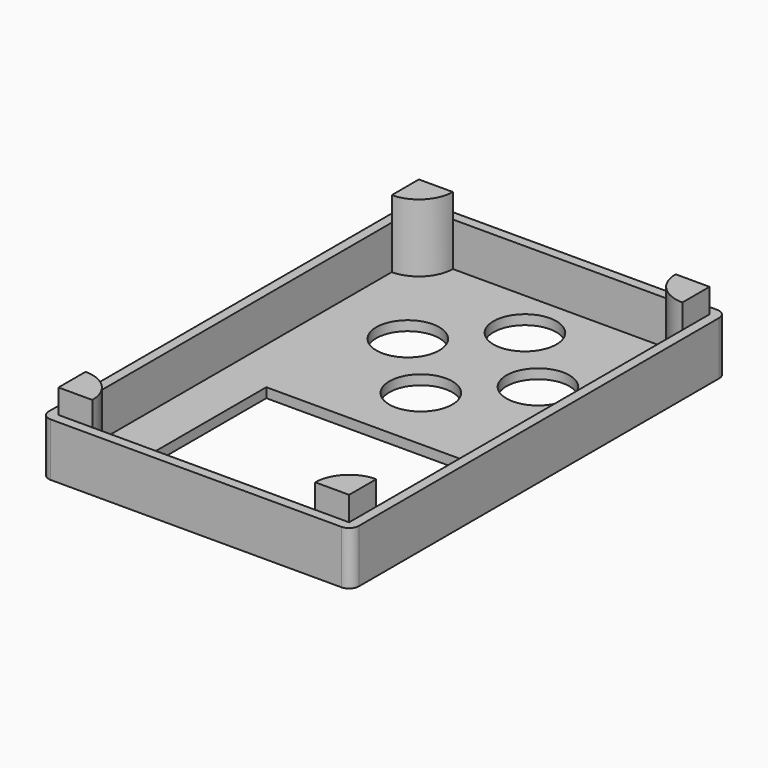
from build123d import *

# Parameters (mm, degrees)
PAD001_DEPTH            = 11
SKETCH002_W             = 60
SKETCH002_H             = 93
POCKET001_DEPTH         = 9
SKETCH004_R             = 6.5
POCKET002_DEPTH         = 5
PAD002_DEPTH            = 14
BODY003_PLACEMENT_ANGLE = 180


with BuildPart() as part:
    # Sketch003 → Pad001 (new body)
    with BuildSketch(Plane.XY):
        with BuildLine():
            ThreePointArc((0, 2), (-1.414214, 1.414214), (-2, 0))
            Line((-2, 0), (-2, -93))
            ThreePointArc((-2, -93), (-1.414207, -94.414201), (0, -94.999981))
            Line((0, -94.999981), (60, -94.999981))
            ThreePointArc((60, -94.999981), (61.414214, -94.414194), (62, -92.999981))
            Line((62, 0), (62, -92.999981))
            ThreePointArc((62, 0), (61.414214, 1.414214), (60, 2))
            Line((0, 2), (60, 2))
        make_face()
    extrude(amount=PAD001_DEPTH)

    # Sketch002 (on Face10 of Pad001) → Pocket001 (cut)
    with BuildSketch(Plane.XY.offset(11)):
        with Locations((30, -46.5)):
            Rectangle(SKETCH002_W, SKETCH002_H)
    extrude(amount=-POCKET001_DEPTH, mode=Mode.SUBTRACT)

    # Sketch004 → Pocket002 (cut)
    with BuildSketch(Plane.XY):
        with Locations((30, -56)):
            Circle(SKETCH004_R)
        with Locations((43.435029, -69.435029)):
            Circle(SKETCH004_R)
        with Locations((16.564971, -69.435029)):
            Circle(SKETCH004_R)
        with Locations((30, -82.870058)):
            Circle(SKETCH004_R)
        Polygon((50.693539, -7), (50.693539, -42), (9.693539, -42), (9.693539, -7), (30.193539, -7), align=None)
    extrude(amount=POCKET002_DEPTH, mode=Mode.SUBTRACT)

    # Sketch006 (on Face24 of Pocket002) → Pad002 (join)
    with BuildSketch(Plane.XY.offset(2)):
        with BuildLine():
            Line((0, 0), (7, 0))
            ThreePointArc((0, -7), (4.949747, -4.949747), (7, 0))
            Line((0, -7), (0, 0))
        make_face()
        with BuildLine():
            Line((60, 0), (53, 0))
            ThreePointArc((53, 0), (55.050253, -4.949747), (60, -7))
            Line((60, 0), (60, -7))
        make_face()
        with BuildLine():
            Line((0, -93), (0, -86))
            ThreePointArc((7, -93), (4.949747, -88.050253), (0, -86))
            Line((0, -93), (7, -93))
        make_face()
        with BuildLine():
            Line((60, -93), (60, -86))
            ThreePointArc((60, -86), (55.050253, -88.050253), (53, -93))
            Line((60, -93), (53, -93))
        make_face()
    extrude(amount=PAD002_DEPTH)


with BuildPart() as part_1:
    # Body003 placement: moved
    add(part.part.moved(Location((-10, -93, 0))).rotate(Axis((-10, -93, 0), (0, 0, 1)), BODY003_PLACEMENT_ANGLE))


solid = part_1.part
